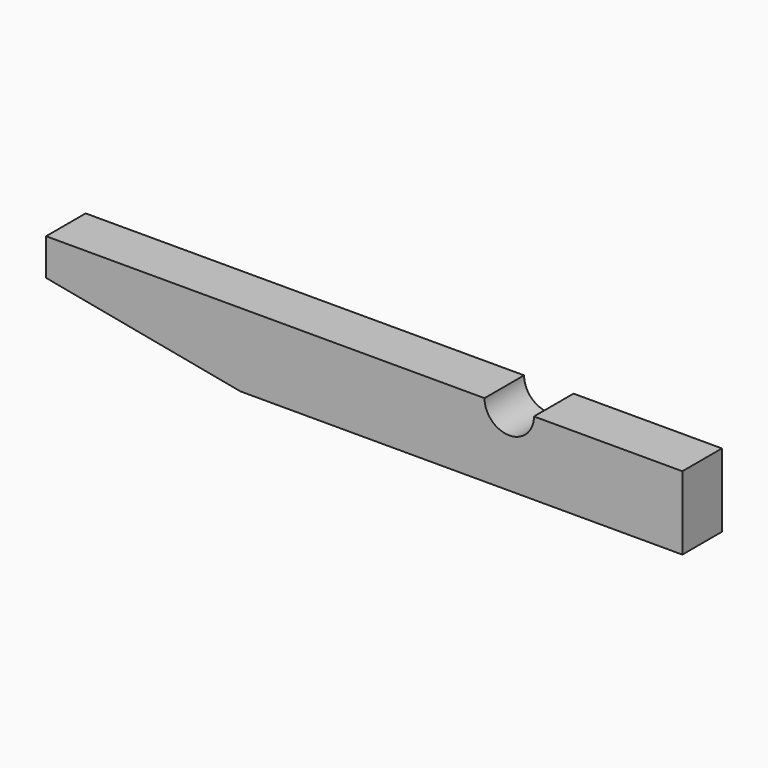
from build123d import *

# Parameters (mm, degrees)
F1_DEPTH = 6.35


with BuildPart() as f1:
    # F0 (on Front) → F1 (new body)
    with BuildSketch(Plane.XZ):
        with BuildLine():
            Line((15.443564, 4.712719), (-40.843564, 4.712719))
            Line((-40.843564, 4.712719), (-40.843564, 0))
            Line((-40.843564, 0), (-15.885977, -4.712719))
            Line((-15.885977, -4.712719), (40.843564, -4.712719))
            Line((40.843564, -4.712719), (40.843564, 4.712719))
            Line((40.843564, 4.712719), (21.793564, 4.712719))
            ThreePointArc((21.793564, 4.712719), (18.618564, 1.537719), (15.443564, 4.712719))
        make_face()
    extrude(amount=F1_DEPTH)


solid = f1.part
